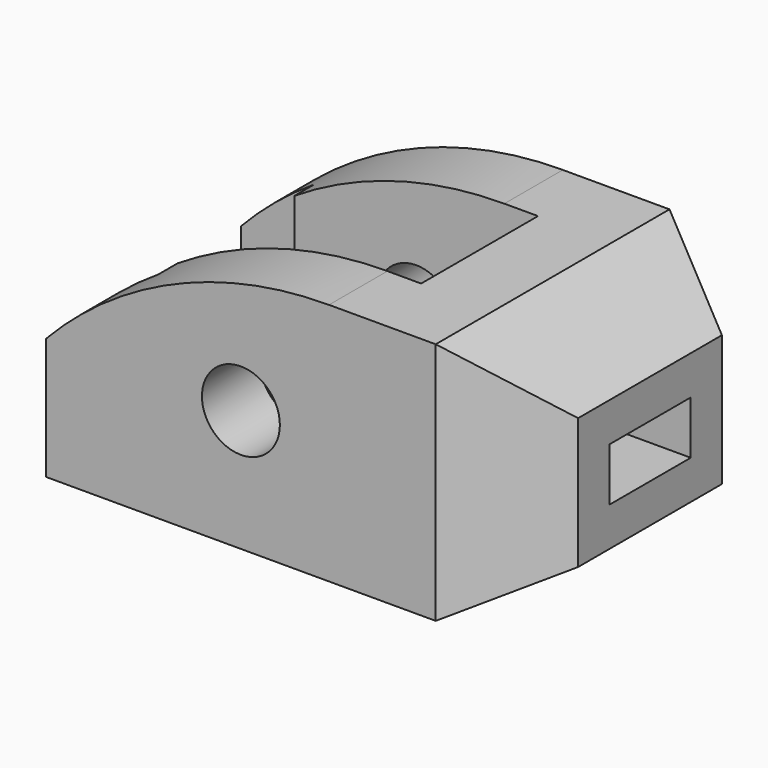
from build123d import *

# Parameters (mm, degrees)
F0_R      = 8
F1_DEPTH  = 60
F3_DEPTH  = 50.001
F4_W      = 20
F4_H      = 50
F5_DEPTH  = 60
F7_DEPTH  = 60.001
F9_DEPTH  = 50.001
F13_DEPTH = 50.001
F11_W     = 20.90599
F11_H     = 10.90599
F12_DEPTH = 100.001


with BuildPart() as f1:
    # F0 (on Front) → F1 (new body)
    with BuildSketch(Plane.XZ):
        with BuildLine():
            Line((-80, 0), (0, 0))
            Line((0, 0), (0, 50))
            Line((0, 50), (-21.90525, 50))
            ThreePointArc((-21.90525, 50), (-53.528026, 43.484692), (-80, 25))
            Line((-80, 25), (-80, 0))
        make_face()
        with Locations((-40, 25)):
            Circle(F0_R, mode=Mode.SUBTRACT)
    extrude(amount=-F1_DEPTH)

    # F2 (on Top) → F3 (cut, through all)
    with BuildSketch(Plane.XY):
        Polygon((-15, 30), (-80, 30), (-80, 10), (-65, 10), (-65, 15), (-15, 15), align=None)
        Polygon((-80, 50), (-80, 30), (-15, 30), (-15, 45), (-65, 45), (-65, 50), align=None)
    extrude(amount=F3_DEPTH, mode=Mode.SUBTRACT)

    # F4 (on Front) → F5 (join)
    with BuildSketch(Plane.XZ):
        with Locations((10, 25)):
            Rectangle(F4_W, F4_H)
    extrude(amount=-F5_DEPTH)

    # F6 (on Front) → F7 (cut, through all)
    with BuildSketch(Plane.XZ):
        Polygon((20, 50), (0, 50), (20, 38.452995), align=None)
        Polygon((20, 11.547005), (0, 0), (20, 0), align=None)
    extrude(amount=-F7_DEPTH, mode=Mode.SUBTRACT)

    # F8 (on face) → F9 (cut, through all)
    with BuildSketch(Plane.XY.offset(50)):
        Polygon((20, 11.547005), (0, 0), (20, 0), align=None)
        Polygon((20, 60), (0, 60), (20, 48.452995), align=None)
    extrude(amount=-F9_DEPTH, mode=Mode.SUBTRACT)

    # F10 (on Top) → F13 (cut, through all)
    with BuildSketch(Plane.XY):
        Polygon((20, 11.547005), (0, 0), (20, 0), align=None)
        Polygon((20, 60), (0, 60), (20, 48.452995), align=None)
    extrude(amount=F13_DEPTH, mode=Mode.SUBTRACT)

    # F11 (on face) → F12 (cut, through all)
    with BuildSketch(Plane.YZ.offset(20)):
        with Locations((30, 25)):
            Rectangle(F11_W, F11_H)
    extrude(amount=-F12_DEPTH, mode=Mode.SUBTRACT)


solid = f1.part
